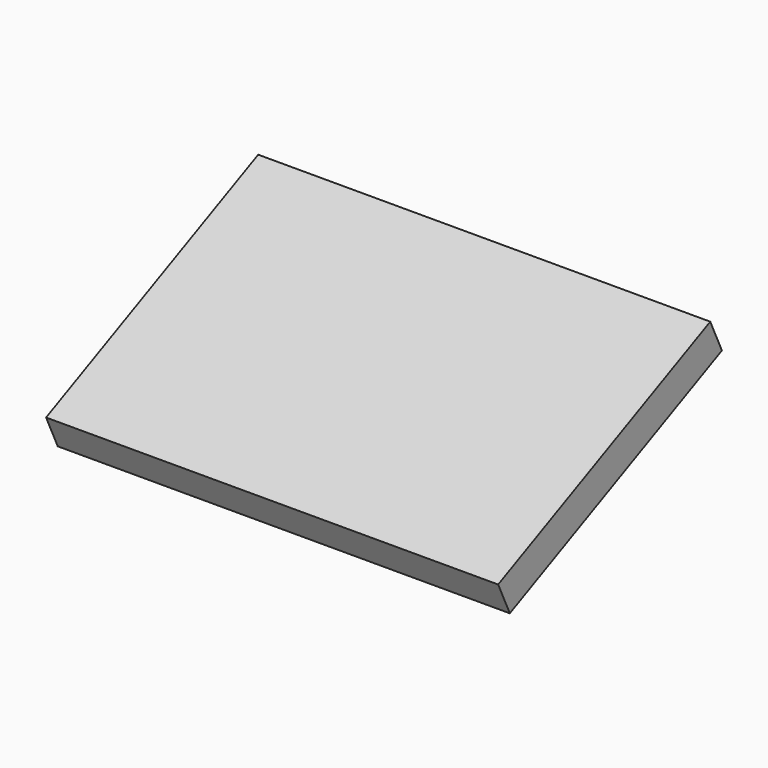
from build123d import *

# Parameters (mm, degrees)
BOX005_W                  = 34.5
BOX005_H                  = 6
BOX005_DEPTH              = 9
BOX004_W                  = 85
BOX004_H                  = 55
BOX004_DEPTH              = 6.5
FUSION001_PLACEMENT_ANGLE = 25


with BuildPart() as cube010:
    # Box005 → Box005 (new body)
    with BuildSketch(Plane(origin=(7, 48, 0), x_dir=(1, 0, 0), z_dir=(0, 0, 1))):
        with Locations((17.25, 3)):
            Rectangle(BOX005_W, BOX005_H)
    extrude(amount=BOX005_DEPTH)


with BuildPart() as touchscreen:
    # Box004 → Box004 (new body)
    with BuildSketch(Plane.XY.offset(9)):
        with Locations((42.5, 27.5)):
            Rectangle(BOX004_W, BOX004_H)
    extrude(amount=BOX004_DEPTH)

    # Fusion001: union Cube010
    add(cube010.part)


with BuildPart() as touchscreen_1:
    # Fusion001 placement: moved
    add(touchscreen.part.moved(Location((12.6, 36, 56.64))).rotate(Axis((12.6, 36, 56.64), (1, 0, 0)), FUSION001_PLACEMENT_ANGLE))


solid = touchscreen_1.part
